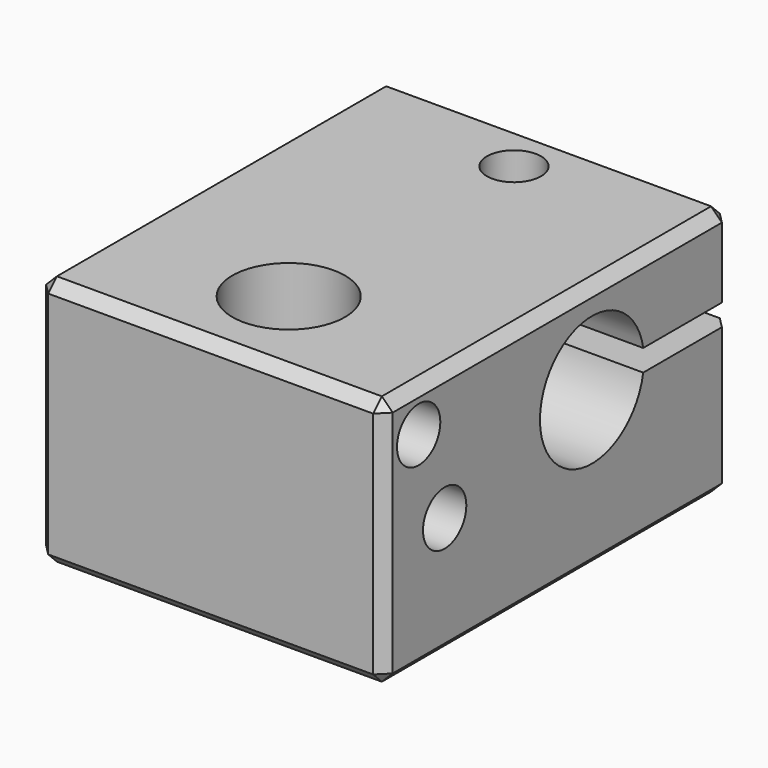
from build123d import *

# Parameters (mm, degrees)
F0_W     = 16
F0_H     = 20
F0_R     = 2.6
F0_R_2   = 1.25
F1_DEPTH = 11.6
F3_DEPTH = 16.001
F4_R     = 1.25
F5_DEPTH = 5
F6_SIZE  = 0.5


with BuildPart() as f1:
    # F0 (on Top) → F1 (new body)
    with BuildSketch(Plane.XY):
        with Locations((8, 10)):
            Rectangle(F0_W, F0_H)
        with Locations((8, 4.5)):
            Circle(F0_R, mode=Mode.SUBTRACT)
        with Locations((8, 17.5)):
            Circle(F0_R_2, mode=Mode.SUBTRACT)
    extrude(amount=F1_DEPTH)

    # F2 (on face) → F3 (cut, through all)
    with BuildSketch(Plane.YZ.offset(16)):
        with BuildLine():
            Line((21.9580398915, 7.85), (14.9580398915, 7.85))
            ThreePointArc((14.9580398915, 7.85), (9, 7.35), (14.9580398915, 6.85))
            Line((14.9580398915, 6.85), (21.9580398915, 6.85))
            Line((21.9580398915, 6.85), (21.9580398915, 7.85))
        make_face()
    extrude(amount=-F3_DEPTH, mode=Mode.SUBTRACT)

    # F4 (on face) → F5 (cut)
    with BuildSketch(Plane.YZ.offset(16)):
        with Locations((2, 9.6)):
            Circle(F4_R)
        with Locations((3.5, 5.6)):
            Circle(F4_R)
    extrude(amount=-F5_DEPTH, mode=Mode.SUBTRACT)

    # F6
    f6_edges = [f1.edges().sort_by_distance(p)[0] for p in [
        (0, 0, 5.8),
        (16, 0, 5.8),
        (8, 0, 0),
        (8, 0, 11.6),
        (16, 10, 11.6),
        (16, 10, 0),
        (16, 20, 3.425),
        (16, 20, 9.725),
        (0, 20, 9.725),
        (8, 20, 11.6),
        (8, 20, 0),
        (0, 20, 3.425),
        (0, 10, 11.6),
        (0, 10, 0),
    ]]
    chamfer(f6_edges, length=F6_SIZE)


solid = f1.part
